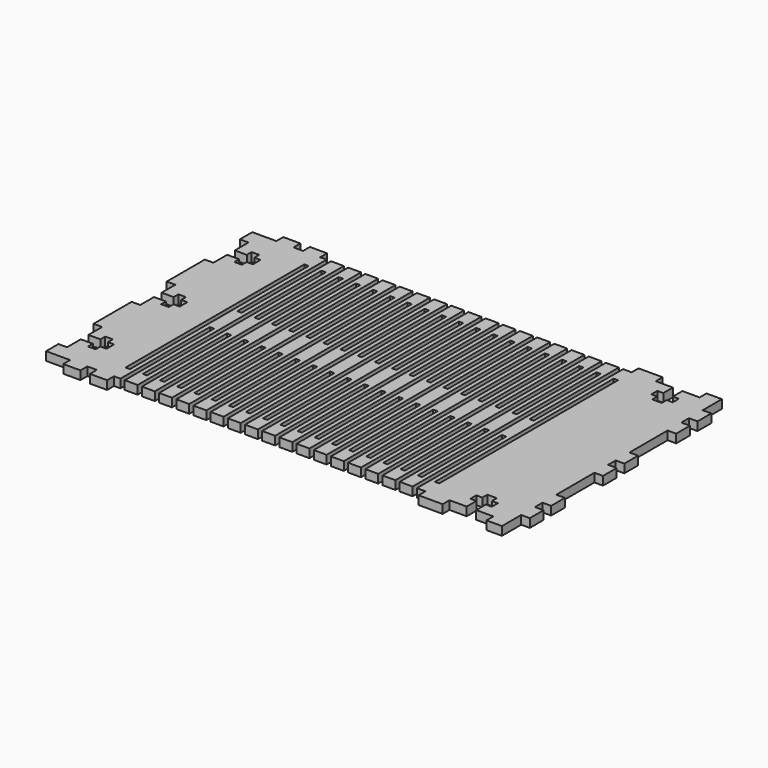
from build123d import *

# Parameters (mm, degrees)
F0_W     = 1.5875
F0_H     = 82.55
F0_W_2   = 6.35
F0_H_2   = 3.175
F0_W_3   = 8.89
F0_W_4   = 5.715
F0_W_5   = 3.175
F0_H_3   = 6.35
F1_DEPTH = 3.175


with BuildPart() as f1:
    # F0 (on Top) → F1 (new body)
    with BuildSketch(Plane.XY):
        Polygon((-188.017443, -208.735484), (-188.017443, -214.450484), (-179.127443, -214.450484), (-172.777443, -214.450484), (-169.272243, -214.450484), (-162.922243, -214.450484), (-160.534643, -214.450484), (-160.534643, -173.175484), (-158.947143, -173.175484), (-158.947143, -214.450484), (-154.184643, -214.450484), (-154.184643, -173.175484), (-152.597143, -173.175484), (-152.597143, -214.450484), (-147.834643, -214.450484), (-147.834643, -173.175484), (-146.247143, -173.175484), (-146.247143, -214.450484), (-141.484643, -214.450484), (-141.484643, -173.175484), (-139.897143, -173.175484), (-139.897143, -214.450484), (-135.134643, -214.450484), (-135.134643, -173.175484), (-133.547143, -173.175484), (-133.547143, -214.450484), (-128.784643, -214.450484), (-128.784643, -173.175484), (-127.197143, -173.175484), (-127.197143, -214.450484), (-122.434643, -214.450484), (-122.434643, -173.175484), (-120.847143, -173.175484), (-120.847143, -214.450484), (-116.084643, -214.450484), (-116.084643, -173.175484), (-114.497143, -173.175484), (-114.497143, -214.450484), (-109.734643, -214.450484), (-109.734643, -173.175484), (-108.147143, -173.175484), (-108.147143, -214.450484), (-103.384643, -214.450484), (-103.384643, -173.175484), (-101.797143, -173.175484), (-101.797143, -214.450484), (-97.034643, -214.450484), (-97.034643, -173.175484), (-95.447143, -173.175484), (-95.447143, -214.450484), (-90.684643, -214.450484), (-90.684643, -173.175484), (-89.097143, -173.175484), (-89.097143, -214.450484), (-84.334643, -214.450484), (-84.334643, -173.175484), (-82.747143, -173.175484), (-82.747143, -214.450484), (-77.984643, -214.450484), (-77.984643, -173.175484), (-76.397143, -173.175484), (-76.397143, -214.450484), (-71.634643, -214.450484), (-71.634643, -173.175484), (-70.047143, -173.175484), (-70.047143, -214.450484), (-65.284643, -214.450484), (-65.284643, -173.175484), (-63.697143, -173.175484), (-63.697143, -214.450484), (-58.934643, -214.450484), (-58.934643, -173.175484), (-57.347143, -173.175484), (-57.347143, -214.450484), (-52.584643, -214.450484), (-52.584643, -173.175484), (-50.997143, -173.175484), (-50.997143, -214.450484), (-47.822143, -214.450484), (-38.932143, -214.450484), (-32.582143, -214.450484), (-32.582143, -210.005484), (-34.798293, -210.005484), (-34.798293, -207.227359), (-32.582143, -207.227359), (-32.582143, -204.925484), (-29.076943, -204.925484), (-29.076943, -207.227359), (-26.860793, -207.227359), (-26.860793, -210.005484), (-29.076943, -210.005484), (-29.076943, -214.450484), (-22.726943, -214.450484), (-17.011943, -214.450484), (-17.011943, -208.735484), (-17.011943, -202.385484), (-17.011943, -198.880284), (-17.011943, -192.530284), (-17.011943, -174.928084), (-17.011943, -168.578084), (-17.011943, -165.072884), (-17.011943, -158.722884), (-17.011943, -141.120684), (-17.011943, -134.770684), (-17.011943, -131.265484), (-17.011943, -124.915484), (-17.011943, -119.200484), (-22.726943, -119.200484), (-29.076943, -119.200484), (-29.076943, -123.645484), (-26.860793, -123.645484), (-26.860793, -126.423609), (-29.076943, -126.423609), (-29.076943, -128.725484), (-32.582143, -128.725484), (-32.582143, -126.423609), (-34.798293, -126.423609), (-34.798293, -123.645484), (-32.582143, -123.645484), (-32.582143, -119.200484), (-38.932143, -119.200484), (-47.822143, -119.200484), (-50.997143, -119.200484), (-50.997143, -160.475484), (-52.584643, -160.475484), (-52.584643, -119.200484), (-57.347143, -119.200484), (-57.347143, -160.475484), (-58.934643, -160.475484), (-58.934643, -119.200484), (-63.697143, -119.200484), (-63.697143, -160.475484), (-65.284643, -160.475484), (-65.284643, -119.200484), (-70.047143, -119.200484), (-70.047143, -160.475484), (-71.634643, -160.475484), (-71.634643, -119.200484), (-76.397143, -119.200484), (-76.397143, -160.475484), (-77.984643, -160.475484), (-77.984643, -119.200484), (-82.747143, -119.200484), (-82.747143, -160.475484), (-84.334643, -160.475484), (-84.334643, -119.200484), (-89.097143, -119.200484), (-89.097143, -160.475484), (-90.684643, -160.475484), (-90.684643, -119.200484), (-95.447143, -119.200484), (-95.447143, -160.475484), (-97.034643, -160.475484), (-97.034643, -119.200484), (-101.797143, -119.200484), (-101.797143, -160.475484), (-103.384643, -160.475484), (-103.384643, -119.200484), (-108.147143, -119.200484), (-108.147143, -160.475484), (-109.734643, -160.475484), (-109.734643, -119.200484), (-114.497143, -119.200484), (-114.497143, -160.475484), (-116.084643, -160.475484), (-116.084643, -119.200484), (-120.847143, -119.200484), (-120.847143, -160.475484), (-122.434643, -160.475484), (-122.434643, -119.200484), (-127.197143, -119.200484), (-127.197143, -160.475484), (-128.784643, -160.475484), (-128.784643, -119.200484), (-133.547143, -119.200484), (-133.547143, -160.475484), (-135.134643, -160.475484), (-135.134643, -119.200484), (-139.897143, -119.200484), (-139.897143, -160.475484), (-141.484643, -160.475484), (-141.484643, -119.200484), (-146.247143, -119.200484), (-146.247143, -160.475484), (-147.834643, -160.475484), (-147.834643, -119.200484), (-152.597143, -119.200484), (-152.597143, -160.475484), (-154.184643, -160.475484), (-154.184643, -119.200484), (-155.302243, -119.200484), (-158.947143, -119.200484), (-158.947143, -160.475484), (-160.534643, -160.475484), (-160.534643, -119.200484), (-162.922243, -119.200484), (-169.272243, -119.200484), (-172.777443, -119.200484), (-179.127443, -119.200484), (-188.017443, -119.200484), (-188.017443, -124.915484), (-184.842443, -124.915484), (-184.842443, -131.265484), (-180.397443, -131.265484), (-180.397443, -129.049334), (-177.619318, -129.049334), (-177.619318, -131.265484), (-175.317443, -131.265484), (-175.317443, -134.770684), (-177.619318, -134.770684), (-177.619318, -136.986834), (-180.397443, -136.986834), (-180.397443, -134.770684), (-184.842443, -134.770684), (-184.842443, -141.120684), (-188.017443, -141.120684), (-188.017443, -158.722884), (-184.842443, -158.722884), (-184.842443, -165.072884), (-180.397443, -165.072884), (-180.397443, -162.856734), (-177.619318, -162.856734), (-177.619318, -165.072884), (-175.317443, -165.072884), (-175.317443, -168.578084), (-177.619318, -168.578084), (-177.619318, -170.794234), (-180.397443, -170.794234), (-180.397443, -168.578084), (-184.842443, -168.578084), (-184.842443, -174.928084), (-188.017443, -174.928084), (-188.017443, -192.530284), (-184.842443, -192.530284), (-184.842443, -198.880284), (-180.397443, -198.880284), (-180.397443, -196.664134), (-177.619318, -196.664134), (-177.619318, -198.880284), (-175.317443, -198.880284), (-175.317443, -202.385484), (-177.619318, -202.385484), (-177.619318, -204.601634), (-180.397443, -204.601634), (-180.397443, -202.385484), (-184.842443, -202.385484), (-184.842443, -208.735484), align=None)
        with Locations((-162.915893, -166.825484)):
            Rectangle(F0_W, F0_H, mode=Mode.SUBTRACT)
        with Locations((-156.565893, -166.825484)):
            Rectangle(F0_W, F0_H, mode=Mode.SUBTRACT)
        with Locations((-150.215893, -166.825484)):
            Rectangle(F0_W, F0_H, mode=Mode.SUBTRACT)
        with Locations((-143.865893, -166.825484)):
            Rectangle(F0_W, F0_H, mode=Mode.SUBTRACT)
        with Locations((-137.515893, -166.825484)):
            Rectangle(F0_W, F0_H, mode=Mode.SUBTRACT)
        with Locations((-131.165893, -166.825484)):
            Rectangle(F0_W, F0_H, mode=Mode.SUBTRACT)
        with Locations((-124.815893, -166.825484)):
            Rectangle(F0_W, F0_H, mode=Mode.SUBTRACT)
        with Locations((-118.465893, -166.825484)):
            Rectangle(F0_W, F0_H, mode=Mode.SUBTRACT)
        with Locations((-112.115893, -166.825484)):
            Rectangle(F0_W, F0_H, mode=Mode.SUBTRACT)
        with Locations((-105.765893, -166.825484)):
            Rectangle(F0_W, F0_H, mode=Mode.SUBTRACT)
        with Locations((-99.415893, -166.825484)):
            Rectangle(F0_W, F0_H, mode=Mode.SUBTRACT)
        with Locations((-93.065893, -166.825484)):
            Rectangle(F0_W, F0_H, mode=Mode.SUBTRACT)
        with Locations((-86.715893, -166.825484)):
            Rectangle(F0_W, F0_H, mode=Mode.SUBTRACT)
        with Locations((-80.365893, -166.825484)):
            Rectangle(F0_W, F0_H, mode=Mode.SUBTRACT)
        with Locations((-74.015893, -166.825484)):
            Rectangle(F0_W, F0_H, mode=Mode.SUBTRACT)
        with Locations((-67.665893, -166.825484)):
            Rectangle(F0_W, F0_H, mode=Mode.SUBTRACT)
        with Locations((-61.315893, -166.825484)):
            Rectangle(F0_W, F0_H, mode=Mode.SUBTRACT)
        with Locations((-54.965893, -166.825484)):
            Rectangle(F0_W, F0_H, mode=Mode.SUBTRACT)
        with Locations((-48.615893, -166.825484)):
            Rectangle(F0_W, F0_H, mode=Mode.SUBTRACT)
        with Locations((-175.952443, -117.612984)):
            Rectangle(F0_W_2, F0_H_2)
        with Locations((-166.097243, -117.612984)):
            Rectangle(F0_W_2, F0_H_2)
        with Locations((-175.952443, -216.037984)):
            Rectangle(F0_W_2, F0_H_2)
        with Locations((-166.097243, -216.037984)):
            Rectangle(F0_W_2, F0_H_2)
        with Locations((-43.377143, -216.037984)):
            Rectangle(F0_W_3, F0_H_2)
        with Locations((-43.377143, -117.612984)):
            Rectangle(F0_W_3, F0_H_2)
        with Locations((-19.869443, -117.612984)):
            Rectangle(F0_W_4, F0_H_2)
        with Locations((-15.424443, -128.090484)):
            Rectangle(F0_W_5, F0_H_3)
        with Locations((-15.424443, -137.945684)):
            Rectangle(F0_W_5, F0_H_3)
        with Locations((-15.424443, -171.753084)):
            Rectangle(F0_W_5, F0_H_3)
        with Locations((-15.424443, -161.897884)):
            Rectangle(F0_W_5, F0_H_3)
        with Locations((-15.424443, -195.705284)):
            Rectangle(F0_W_5, F0_H_3)
        with Locations((-15.424443, -205.560484)):
            Rectangle(F0_W_5, F0_H_3)
        with Locations((-19.869443, -216.037984)):
            Rectangle(F0_W_4, F0_H_2)
    extrude(amount=F1_DEPTH)


solid = f1.part
